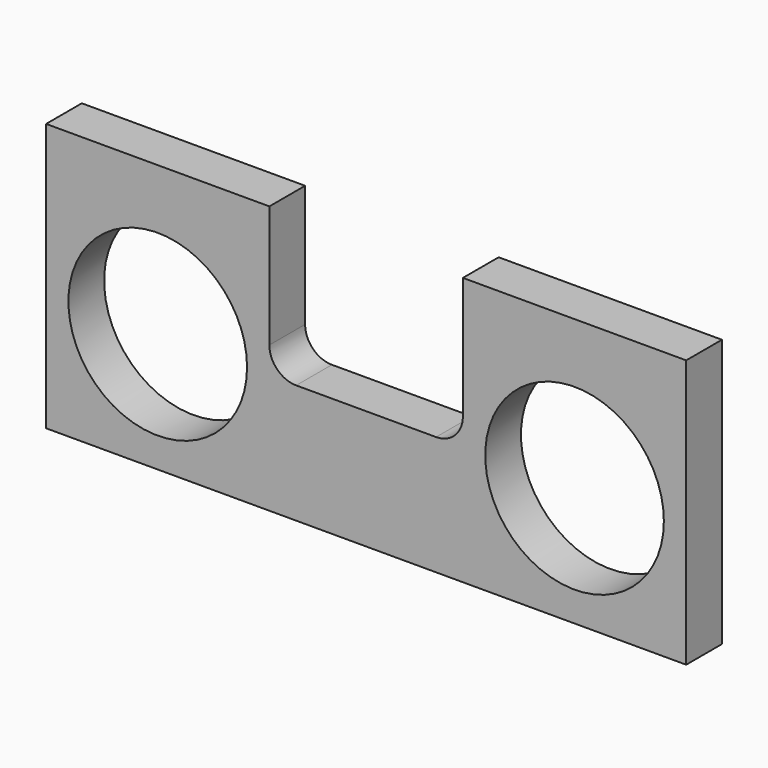
from build123d import *

# Parameters (mm, degrees)
F0_W     = 273.05
F0_H     = 114.3
F1_DEPTH = 19.05
F2_R     = 38.1
F3_DEPTH = 25.4
F5_DEPTH = 25.4


with BuildPart() as f1:
    # F0 (on Front) → F1 (new body)
    with BuildSketch(Plane.XZ):
        with Locations((136.525, 57.15)):
            Rectangle(F0_W, F0_H)
    extrude(amount=F1_DEPTH)

    # F2 (on face) → F3 (cut)
    with BuildSketch(Plane.XZ.offset(19.05)):
        with Locations((225.425, 50.8)):
            Circle(F2_R)
        with Locations((47.625, 50.8)):
            Circle(F2_R)
    extrude(amount=-F3_DEPTH, mode=Mode.SUBTRACT)

    # F4 (on face) → F5 (cut)
    with BuildSketch(Plane.XZ.offset(19.05)):
        with BuildLine():
            Line((177.8, 114.3), (95.25, 114.3))
            Line((95.25, 114.3), (95.25, 62.23))
            ThreePointArc((95.25, 62.23), (98.597769, 54.147769), (106.68, 50.8))
            Line((106.68, 50.8), (166.37, 50.8))
            ThreePointArc((166.37, 50.8), (174.452231, 54.147769), (177.8, 62.23))
            Line((177.8, 62.23), (177.8, 114.3))
        make_face()
    extrude(amount=-F5_DEPTH, mode=Mode.SUBTRACT)


solid = f1.part
